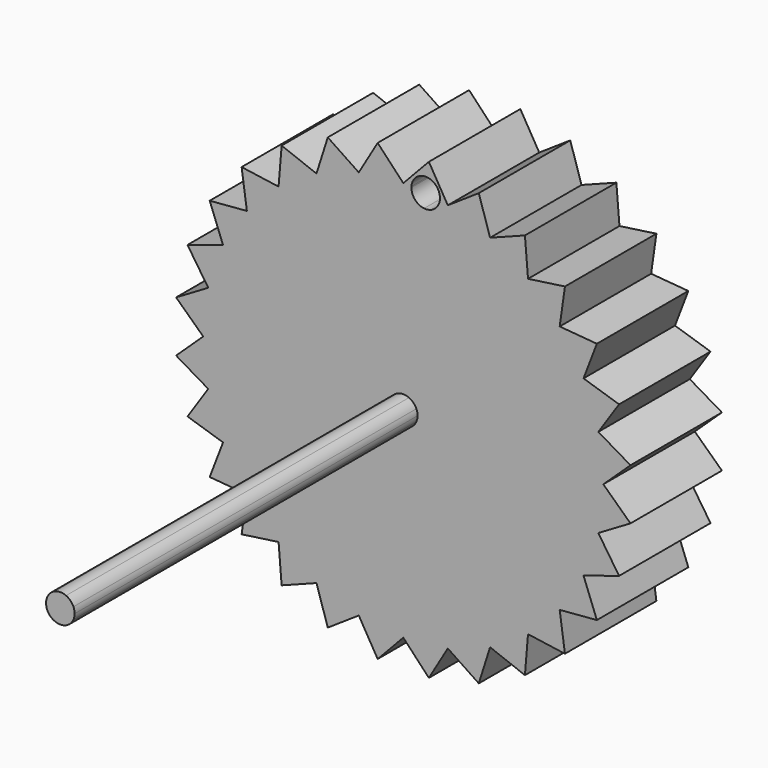
from build123d import *

# Parameters (mm, degrees)
F1_DEPTH = 5.08
F3_W     = 0.508
F3_H     = 0.508
F4_DEPTH = 19.05
F6_DEPTH = 25.4


with BuildPart() as f1:
    # F0 (on Front) → F1 (new body)
    with BuildSketch(Plane.XZ):
        with BuildLine():
            Line((-4.7297651602, 7.5273781311), (0, 0))
            Line((0, 0), (-3.8572264408, 8.0096132357))
            ThreePointArc((-3.8572264408, 8.0096132357), (-4.3002609064, 7.7807362208), (-4.7297651602, 7.5273781311))
        make_face()
        with BuildLine():
            Line((-5.5428243385, 6.9504818791), (0, 0))
            Line((0, 0), (-4.7297651602, 7.5273781311))
            ThreePointArc((-4.7297651602, 7.5273781311), (-5.144387823, 7.250336125), (-5.5428243385, 6.9504818791))
        make_face()
        with BuildLine():
            Line((-5.4054458974, 8.6027178642), (-5.5428243385, 6.9504818791))
            ThreePointArc((-5.5428243385, 6.9504818791), (-5.144387823, 7.250336125), (-4.7297651602, 7.5273781311))
            Line((-4.7297651602, 7.5273781311), (-5.4054458974, 8.6027178642))
        make_face()
        with BuildLine():
            Line((-5.4054458974, 8.6027178642), (-4.7297651602, 7.5273781311))
            ThreePointArc((-4.7297651602, 7.5273781311), (-4.3002609064, 7.7807362208), (-3.8572264408, 8.0096132357))
            Line((-3.8572264408, 8.0096132357), (-5.4054458974, 8.6027178642))
        make_face()
        with BuildLine():
            Line((-3.3556352695, 9.5898546359), (-3.8572264408, 8.0096132357))
            ThreePointArc((-3.8572264408, 8.0096132357), (-3.4020557137, 8.213289044), (-2.9361808608, 8.3911228064))
            Line((-2.9361808608, 8.3911228064), (-3.3556352695, 9.5898546359))
        make_face()
        with BuildLine():
            Line((-3.3556352695, 9.5898546359), (-2.9361808608, 8.3911228064))
            ThreePointArc((-2.9361808608, 8.3911228064), (-2.4610676966, 8.5425549921), (-1.9782111029, 8.6671091393))
            Line((-1.9782111029, 8.6671091393), (-3.3556352695, 9.5898546359))
        make_face()
        with BuildLine():
            Line((-2.9361808608, 8.3911228064), (0, 0))
            Line((0, 0), (-1.9782111029, 8.6671091393))
            ThreePointArc((-1.9782111029, 8.6671091393), (-2.4610676966, 8.5425549921), (-2.9361808608, 8.3911228064))
        make_face()
        with BuildLine():
            Line((-3.8572264408, 8.0096132357), (0, 0))
            Line((0, 0), (-2.9361808608, 8.3911228064))
            ThreePointArc((-2.9361808608, 8.3911228064), (-3.4020557137, 8.213289044), (-3.8572264408, 8.0096132357))
        make_face()
        with BuildLine():
            Line((-0.9953641926, 8.834101546), (0, 0))
            Line((0, 0), (0, 8.89))
            ThreePointArc((0, 8.89), (-0.4984662759, 8.8760143855), (-0.9953641926, 8.834101546))
        make_face()
        with BuildLine():
            ThreePointArc((-0.9953641926, 8.834101546), (-0.4984662759, 8.8760143855), (0, 8.89))
            Line((0, 8.89), (-1.1375590772, 10.0961160525))
            Line((-1.1375590772, 10.0961160525), (-0.9953641926, 8.834101546))
        make_face()
        with BuildLine():
            Line((-1.1375590772, 10.0961160525), (-1.9782111029, 8.6671091393))
            ThreePointArc((-1.9782111029, 8.6671091393), (-1.4891303252, 8.7643933546), (-0.9953641926, 8.834101546))
            Line((-0.9953641926, 8.834101546), (-1.1375590772, 10.0961160525))
        make_face()
        with BuildLine():
            Line((-1.9782111029, 8.6671091393), (0, 0))
            Line((0, 0), (-0.9953641926, 8.834101546))
            ThreePointArc((-0.9953641926, 8.834101546), (-1.4891303252, 8.7643933546), (-1.9782111029, 8.6671091393))
        make_face()
        with BuildLine():
            Line((-6.2861792847, 6.2861792847), (0, 0))
            Line((0, 0), (-5.5428243385, 6.9504818791))
            ThreePointArc((-5.5428243385, 6.9504818791), (-5.923821078, 6.6287588458), (-6.2861792847, 6.2861792847))
        make_face()
        with BuildLine():
            Line((-7.1842048969, 7.1842048969), (-6.2861792847, 6.2861792847))
            ThreePointArc((-6.2861792847, 6.2861792847), (-5.923821078, 6.6287588458), (-5.5428243385, 6.9504818791))
            Line((-5.5428243385, 6.9504818791), (-7.1842048969, 7.1842048969))
        make_face()
        with BuildLine():
            Line((-6.9504818791, 5.5428243385), (0, 0))
            Line((0, 0), (-6.2861792847, 6.2861792847))
            ThreePointArc((-6.2861792847, 6.2861792847), (-6.6287588458, 5.923821078), (-6.9504818791, 5.5428243385))
        make_face()
        with BuildLine():
            Line((-7.1842048969, 7.1842048969), (-6.9504818791, 5.5428243385))
            ThreePointArc((-6.9504818791, 5.5428243385), (-6.6287588458, 5.923821078), (-6.2861792847, 6.2861792847))
            Line((-6.2861792847, 6.2861792847), (-7.1842048969, 7.1842048969))
        make_face()
        with BuildLine():
            Line((-7.5273781311, 4.7297651602), (0, 0))
            Line((0, 0), (-6.9504818791, 5.5428243385))
            ThreePointArc((-6.9504818791, 5.5428243385), (-7.250336125, 5.144387823), (-7.5273781311, 4.7297651602))
        make_face()
        with BuildLine():
            Line((-8.6027178642, 5.4054458974), (-7.5273781311, 4.7297651602))
            ThreePointArc((-7.5273781311, 4.7297651602), (-7.250336125, 5.144387823), (-6.9504818791, 5.5428243385))
            Line((-6.9504818791, 5.5428243385), (-8.6027178642, 5.4054458974))
        make_face()
        with BuildLine():
            Line((-8.6027178642, 5.4054458974), (-8.0096132357, 3.8572264408))
            ThreePointArc((-8.0096132357, 3.8572264408), (-7.7807362208, 4.3002609064), (-7.5273781311, 4.7297651602))
            Line((-7.5273781311, 4.7297651602), (-8.6027178642, 5.4054458974))
        make_face()
        with BuildLine():
            Line((-8.0096132357, 3.8572264408), (0, 0))
            Line((0, 0), (-7.5273781311, 4.7297651602))
            ThreePointArc((-7.5273781311, 4.7297651602), (-7.7807362208, 4.3002609064), (-8.0096132357, 3.8572264408))
        make_face()
        with BuildLine():
            Line((-8.3911228064, 2.9361808608), (0, 0))
            Line((0, 0), (-8.0096132357, 3.8572264408))
            ThreePointArc((-8.0096132357, 3.8572264408), (-8.213289044, 3.4020557137), (-8.3911228064, 2.9361808608))
        make_face()
        with BuildLine():
            Line((-9.5898546359, 3.3556352695), (-8.3911228064, 2.9361808608))
            ThreePointArc((-8.3911228064, 2.9361808608), (-8.213289044, 3.4020557137), (-8.0096132357, 3.8572264408))
            Line((-8.0096132357, 3.8572264408), (-9.5898546359, 3.3556352695))
        make_face()
        with BuildLine():
            Line((-9.5898546359, 3.3556352695), (-8.6671091393, 1.9782111029))
            ThreePointArc((-8.6671091393, 1.9782111029), (-8.5425549921, 2.4610676966), (-8.3911228064, 2.9361808608))
            Line((-8.3911228064, 2.9361808608), (-9.5898546359, 3.3556352695))
        make_face()
        with BuildLine():
            Line((-8.6671091393, 1.9782111029), (0, 0))
            Line((0, 0), (-8.3911228064, 2.9361808608))
            ThreePointArc((-8.3911228064, 2.9361808608), (-8.5425549921, 2.4610676966), (-8.6671091393, 1.9782111029))
        make_face()
        with BuildLine():
            Line((-8.834101546, 0.9953641926), (0, 0))
            Line((0, 0), (-8.6671091393, 1.9782111029))
            ThreePointArc((-8.6671091393, 1.9782111029), (-8.7643933546, 1.4891303252), (-8.834101546, 0.9953641926))
        make_face()
        with BuildLine():
            Line((-10.0961160525, 1.1375590772), (-8.834101546, 0.9953641926))
            ThreePointArc((-8.834101546, 0.9953641926), (-8.7643933546, 1.4891303252), (-8.6671091393, 1.9782111029))
            Line((-8.6671091393, 1.9782111029), (-10.0961160525, 1.1375590772))
        make_face()
        with BuildLine():
            Line((-10.0961160525, 1.1375590772), (-8.89, 0))
            ThreePointArc((-8.89, 0), (-8.8760143855, 0.4984662759), (-8.834101546, 0.9953641926))
            Line((-8.834101546, 0.9953641926), (-10.0961160525, 1.1375590772))
        make_face()
        with BuildLine():
            Line((-8.89, 0), (0, 0))
            Line((0, 0), (-8.834101546, 0.9953641926))
            ThreePointArc((-8.834101546, 0.9953641926), (-8.8760143855, 0.4984662759), (-8.89, 0))
        make_face()
        with BuildLine():
            Line((-8.834101546, -0.9953641926), (0, 0))
            Line((0, 0), (-8.89, 0))
            ThreePointArc((-8.89, 0), (-8.8760143855, -0.4984662759), (-8.834101546, -0.9953641926))
        make_face()
        with BuildLine():
            Line((-10.0961160525, -1.1375590772), (-8.834101546, -0.9953641926))
            ThreePointArc((-8.834101546, -0.9953641926), (-8.8760143855, -0.4984662759), (-8.89, 0))
            Line((-8.89, 0), (-10.0961160525, -1.1375590772))
        make_face()
        with BuildLine():
            Line((-10.0961160525, -1.1375590772), (-8.6671091393, -1.9782111029))
            ThreePointArc((-8.6671091393, -1.9782111029), (-8.7643933546, -1.4891303252), (-8.834101546, -0.9953641926))
            Line((-8.834101546, -0.9953641926), (-10.0961160525, -1.1375590772))
        make_face()
        with BuildLine():
            Line((-8.6671091393, -1.9782111029), (0, 0))
            Line((0, 0), (-8.834101546, -0.9953641926))
            ThreePointArc((-8.834101546, -0.9953641926), (-8.7643933546, -1.4891303252), (-8.6671091393, -1.9782111029))
        make_face()
        with BuildLine():
            Line((-8.3911228064, -2.9361808608), (0, 0))
            Line((0, 0), (-8.6671091393, -1.9782111029))
            ThreePointArc((-8.6671091393, -1.9782111029), (-8.5425549921, -2.4610676966), (-8.3911228064, -2.9361808608))
        make_face()
        with BuildLine():
            Line((-9.5898546359, -3.3556352695), (-8.3911228064, -2.9361808608))
            ThreePointArc((-8.3911228064, -2.9361808608), (-8.5425549921, -2.4610676966), (-8.6671091393, -1.9782111029))
            Line((-8.6671091393, -1.9782111029), (-9.5898546359, -3.3556352695))
        make_face()
        with BuildLine():
            Line((-9.5898546359, -3.3556352695), (-8.0096132357, -3.8572264408))
            ThreePointArc((-8.0096132357, -3.8572264408), (-8.213289044, -3.4020557137), (-8.3911228064, -2.9361808608))
            Line((-8.3911228064, -2.9361808608), (-9.5898546359, -3.3556352695))
        make_face()
        with BuildLine():
            Line((-8.0096132357, -3.8572264408), (0, 0))
            Line((0, 0), (-8.3911228064, -2.9361808608))
            ThreePointArc((-8.3911228064, -2.9361808608), (-8.213289044, -3.4020557137), (-8.0096132357, -3.8572264408))
        make_face()
        with BuildLine():
            Line((-7.5273781311, -4.7297651602), (0, 0))
            Line((0, 0), (-8.0096132357, -3.8572264408))
            ThreePointArc((-8.0096132357, -3.8572264408), (-7.7807362208, -4.3002609064), (-7.5273781311, -4.7297651602))
        make_face()
        with BuildLine():
            Line((-8.6027178642, -5.4054458974), (-7.5273781311, -4.7297651602))
            ThreePointArc((-7.5273781311, -4.7297651602), (-7.7807362208, -4.3002609064), (-8.0096132357, -3.8572264408))
            Line((-8.0096132357, -3.8572264408), (-8.6027178642, -5.4054458974))
        make_face()
        with BuildLine():
            Line((-8.6027178642, -5.4054458974), (-6.9504818791, -5.5428243385))
            ThreePointArc((-6.9504818791, -5.5428243385), (-7.250336125, -5.144387823), (-7.5273781311, -4.7297651602))
            Line((-7.5273781311, -4.7297651602), (-8.6027178642, -5.4054458974))
        make_face()
        with BuildLine():
            Line((-6.9504818791, -5.5428243385), (0, 0))
            Line((0, 0), (-7.5273781311, -4.7297651602))
            ThreePointArc((-7.5273781311, -4.7297651602), (-7.250336125, -5.144387823), (-6.9504818791, -5.5428243385))
        make_face()
        with BuildLine():
            Line((-6.2861792847, -6.2861792847), (0, 0))
            Line((0, 0), (-6.9504818791, -5.5428243385))
            ThreePointArc((-6.9504818791, -5.5428243385), (-6.6287588458, -5.923821078), (-6.2861792847, -6.2861792847))
        make_face()
        with BuildLine():
            Line((-5.5428243385, -6.9504818791), (0, 0))
            Line((0, 0), (-6.2861792847, -6.2861792847))
            ThreePointArc((-6.2861792847, -6.2861792847), (-5.923821078, -6.6287588458), (-5.5428243385, -6.9504818791))
        make_face()
        with BuildLine():
            Line((-4.7297651602, -7.5273781311), (0, 0))
            Line((0, 0), (-5.5428243385, -6.9504818791))
            ThreePointArc((-5.5428243385, -6.9504818791), (-5.144387823, -7.250336125), (-4.7297651602, -7.5273781311))
        make_face()
        with BuildLine():
            Line((-7.1842048969, -7.1842048969), (-6.2861792847, -6.2861792847))
            ThreePointArc((-6.2861792847, -6.2861792847), (-6.6287588458, -5.923821078), (-6.9504818791, -5.5428243385))
            Line((-6.9504818791, -5.5428243385), (-7.1842048969, -7.1842048969))
        make_face()
        with BuildLine():
            Line((-7.1842048969, -7.1842048969), (-5.5428243385, -6.9504818791))
            ThreePointArc((-5.5428243385, -6.9504818791), (-5.923821078, -6.6287588458), (-6.2861792847, -6.2861792847))
            Line((-6.2861792847, -6.2861792847), (-7.1842048969, -7.1842048969))
        make_face()
        with BuildLine():
            Line((-5.4054458974, -8.6027178642), (-4.7297651602, -7.5273781311))
            ThreePointArc((-4.7297651602, -7.5273781311), (-5.144387823, -7.250336125), (-5.5428243385, -6.9504818791))
            Line((-5.5428243385, -6.9504818791), (-5.4054458974, -8.6027178642))
        make_face()
        with BuildLine():
            Line((-5.4054458974, -8.6027178642), (-3.8572264408, -8.0096132357))
            ThreePointArc((-3.8572264408, -8.0096132357), (-4.3002609064, -7.7807362208), (-4.7297651602, -7.5273781311))
            Line((-4.7297651602, -7.5273781311), (-5.4054458974, -8.6027178642))
        make_face()
        with BuildLine():
            Line((-2.9361808608, -8.3911228064), (0, 0))
            Line((0, 0), (-3.8572264408, -8.0096132357))
            ThreePointArc((-3.8572264408, -8.0096132357), (-3.4020557137, -8.213289044), (-2.9361808608, -8.3911228064))
        make_face()
        with BuildLine():
            Line((-3.3556352695, -9.5898546359), (-2.9361808608, -8.3911228064))
            ThreePointArc((-2.9361808608, -8.3911228064), (-3.4020557137, -8.213289044), (-3.8572264408, -8.0096132357))
            Line((-3.8572264408, -8.0096132357), (-3.3556352695, -9.5898546359))
        make_face()
        with BuildLine():
            Line((-3.3556352695, -9.5898546359), (-1.9782111029, -8.6671091393))
            ThreePointArc((-1.9782111029, -8.6671091393), (-2.4610676966, -8.5425549921), (-2.9361808608, -8.3911228064))
            Line((-2.9361808608, -8.3911228064), (-3.3556352695, -9.5898546359))
        make_face()
        with BuildLine():
            Line((-1.9782111029, -8.6671091393), (0, 0))
            Line((0, 0), (-2.9361808608, -8.3911228064))
            ThreePointArc((-2.9361808608, -8.3911228064), (-2.4610676966, -8.5425549921), (-1.9782111029, -8.6671091393))
        make_face()
        with BuildLine():
            Line((-0.9953641926, -8.834101546), (0, 0))
            Line((0, 0), (-1.9782111029, -8.6671091393))
            ThreePointArc((-1.9782111029, -8.6671091393), (-1.4891303252, -8.7643933546), (-0.9953641926, -8.834101546))
        make_face()
        with BuildLine():
            Line((-1.1375590772, -10.0961160525), (0, -8.89))
            ThreePointArc((0, -8.89), (-0.4984662759, -8.8760143855), (-0.9953641926, -8.834101546))
            Line((-0.9953641926, -8.834101546), (-1.1375590772, -10.0961160525))
        make_face()
        with BuildLine():
            ThreePointArc((-0.9953641926, -8.834101546), (-1.4891303252, -8.7643933546), (-1.9782111029, -8.6671091393))
            Line((-1.9782111029, -8.6671091393), (-1.1375590772, -10.0961160525))
            Line((-1.1375590772, -10.0961160525), (-0.9953641926, -8.834101546))
        make_face()
        with BuildLine():
            Line((0, -8.89), (0, 0))
            Line((0, 0), (-0.9953641926, -8.834101546))
            ThreePointArc((-0.9953641926, -8.834101546), (-0.4984662759, -8.8760143855), (0, -8.89))
        make_face()
        with BuildLine():
            Line((-3.8572264408, -8.0096132357), (0, 0))
            Line((0, 0), (-4.7297651602, -7.5273781311))
            ThreePointArc((-4.7297651602, -7.5273781311), (-4.3002609064, -7.7807362208), (-3.8572264408, -8.0096132357))
        make_face()
    extrude(amount=F1_DEPTH)

    # F2: F1 across plane


with BuildPart() as f1_1:
    add(f1.part)
    add(f1.part.mirror(Plane.YZ))

    # F3 (on face) → F4 (join)
    with BuildSketch(Plane.XZ.offset(5.08)):
        with BuildLine():
            Line((0.254, 0.254), (0.254, 0.5819871133))
            ThreePointArc((0.254, 0.5819871133), (0, 0.635), (-0.254, 0.5819871133))
            Line((-0.254, 0.5819871133), (-0.254, 0.254))
            Line((-0.254, 0.254), (0.254, 0.254))
        make_face()
        with BuildLine():
            Line((-0.254, -0.254), (-0.254, 0.254))
            Line((-0.254, 0.254), (-0.5819871133, 0.254))
            ThreePointArc((-0.5819871133, 0.254), (-0.635, 0), (-0.5819871133, -0.254))
            Line((-0.5819871133, -0.254), (-0.254, -0.254))
        make_face()
        Rectangle(F3_W, F3_H)
        with BuildLine():
            ThreePointArc((0.5819871133, -0.254), (0.6216055087, -0.1297366237), (0.635, 0))
            ThreePointArc((0.635, 0), (0.6216055087, 0.1297366237), (0.5819871133, 0.254))
            Line((0.5819871133, 0.254), (0.254, 0.254))
            Line((0.254, 0.254), (0.254, -0.254))
            Line((0.254, -0.254), (0.5819871133, -0.254))
        make_face()
        with BuildLine():
            ThreePointArc((-0.254, -0.5819871133), (0, -0.635), (0.254, -0.5819871133))
            Line((0.254, -0.5819871133), (0.254, -0.254))
            Line((0.254, -0.254), (-0.254, -0.254))
            Line((-0.254, -0.254), (-0.254, -0.5819871133))
        make_face()
        with BuildLine():
            Line((0.254, 0.254), (0.5819871133, 0.254))
            ThreePointArc((0.5819871133, 0.254), (0.4490128061, 0.4490128061), (0.254, 0.5819871133))
            Line((0.254, 0.5819871133), (0.254, 0.254))
        make_face()
        with BuildLine():
            Line((-0.254, 0.254), (-0.254, 0.5819871133))
            ThreePointArc((-0.254, 0.5819871133), (-0.4490128061, 0.4490128061), (-0.5819871133, 0.254))
            Line((-0.5819871133, 0.254), (-0.254, 0.254))
        make_face()
        with BuildLine():
            ThreePointArc((-0.5819871133, -0.254), (-0.4490128061, -0.4490128061), (-0.254, -0.5819871133))
            Line((-0.254, -0.5819871133), (-0.254, -0.254))
            Line((-0.254, -0.254), (-0.5819871133, -0.254))
        make_face()
        with BuildLine():
            ThreePointArc((0.254, -0.5819871133), (0.4490128061, -0.4490128061), (0.5819871133, -0.254))
            Line((0.5819871133, -0.254), (0.254, -0.254))
            Line((0.254, -0.254), (0.254, -0.5819871133))
        make_face()
    extrude(amount=F4_DEPTH)

    # F5 (on face) → F6 (cut)
    with BuildSketch(Plane(origin=(0, 0, 0), x_dir=(-1, 0, 0), z_dir=(0, 1, 0))):
        with BuildLine():
            ThreePointArc((-1.623429695, 8.7405134875), (-1.3102328181, 8.7929170338), (-0.9953641926, 8.834101546))
            Line((-0.9953641926, 8.834101546), (-1.0664616349, 9.4651087992))
            ThreePointArc((-1.0664616349, 9.4651087992), (-1.4988190538, 9.2210875957), (-1.623429695, 8.7405134875))
        make_face()
        with BuildLine():
            ThreePointArc((-0.9953641926, 8.834101546), (-0.6792255648, 8.8640144761), (-0.3622203014, 8.8826176577))
            ThreePointArc((-0.3622203014, 8.8826176577), (-0.5906444931, 9.3234142934), (-1.0664616349, 9.4651087992))
            Line((-1.0664616349, 9.4651087992), (-0.9953641926, 8.834101546))
        make_face()
        with BuildLine():
            ThreePointArc((-0.3603641926, 8.834101546), (-0.3608283894, 8.8583773479), (-0.3622203014, 8.8826176577))
            ThreePointArc((-0.3622203014, 8.8826176577), (-0.6792255648, 8.8640144761), (-0.9953641926, 8.834101546))
            Line((-0.9953641926, 8.834101546), (-0.9242667502, 8.2030942927))
            ThreePointArc((-0.9242667502, 8.2030942927), (-0.5218814179, 8.410971469), (-0.3603641926, 8.834101546))
        make_face()
        with BuildLine():
            Line((-0.9242667502, 8.2030942927), (-0.9953641926, 8.834101546))
            ThreePointArc((-0.9953641926, 8.834101546), (-1.3102328181, 8.7929170338), (-1.623429695, 8.7405134875))
            ThreePointArc((-1.623429695, 8.7405134875), (-1.3823502424, 8.3306466848), (-0.9242667502, 8.2030942927))
        make_face()
    extrude(amount=-F6_DEPTH, mode=Mode.SUBTRACT)


solid = f1_1.part
